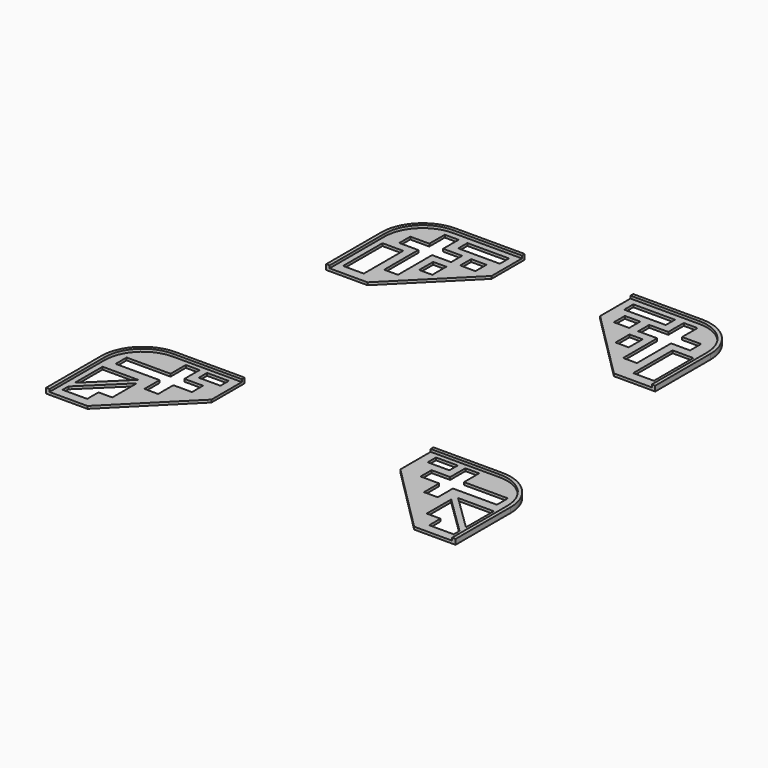
from build123d import *

# Parameters (mm, degrees)
F0_W      = 4.7741434537
F0_H      = 11.3548277877
F0_W_2    = 3.029467538
F0_H_2    = 4.0243016556
F0_W_3    = 3.5360120237
F0_H_3    = 3.175
F0_W_4    = 9.5876548439
F0_H_4    = 2.6476947606
F1_DEPTH  = 0.5953125
F3_W      = 5.000397563
F3_H      = 2.3930110037
F4_DEPTH  = 0.5953125
F7_DEPTH  = 0.5953125
F10_DEPTH = 0.5953125


with BuildPart() as f1:
    # F0 (on Top) → F1 (new body)
    with BuildSketch(Plane.XY):
        with BuildLine():
            Line((-37.8999099401, 23.7517624235), (-37.8999099401, 7.8767624235))
            Line((-37.8999099401, 7.8767624235), (-28.3749099401, 7.8767624235))
            Line((-28.3749099401, 7.8767624235), (-12.4999099401, 23.7517624235))
            Line((-12.4999099401, 23.7517624235), (-12.4999099401, 33.2767624235))
            Line((-12.4999099401, 33.2767624235), (-28.3749099401, 33.2767624235))
            ThreePointArc((-28.3749099401, 33.2767624235), (-35.1101020309, 30.4869545143), (-37.8999099401, 23.7517624235))
        make_face()
        with Locations((-33.4143128712, 15.7890960108)):
            Rectangle(F0_W, F0_H, mode=Mode.SUBTRACT)
        with Locations((-22.6173051633, 19.4543590769)):
            Rectangle(F0_W_2, F0_H_2, mode=Mode.SUBTRACT)
        Polygon((-29.1072471009, 31.0463342831), (-27.5197471009, 31.0463342831), (-25.9322471009, 31.0463342831), (-25.9322471009, 26.5851784881), (-21.5492131154, 26.5851784881), (-21.5492131154, 23.4101784881), (-25.9322471009, 23.4101784881), (-25.9322471009, 13.5838342831), (-27.5197471009, 13.5838342831), (-29.1072471009, 13.5838342831), (-29.1072471009, 23.4101784881), (-33.4902810864, 23.4101784881), (-33.4902810864, 26.5851784881), (-29.1072471009, 26.5851784881), align=None, mode=Mode.SUBTRACT)
        with Locations((-17.7058172412, 24.9976784881)):
            Rectangle(F0_W_3, F0_H_3, mode=Mode.SUBTRACT)
        with Locations((-19.1090297885, 29.7224869028)):
            Rectangle(F0_W_4, F0_H_4, mode=Mode.SUBTRACT)
    extrude(amount=F1_DEPTH)


with BuildPart() as f2_1:
    # F2: instance of F1
    add(f1.part.mirror(Plane.YZ))

    # F8: F1 across plane


with BuildPart() as f4:
    # F3 (on Top) → F4 (new body)
    with BuildSketch(Plane.XY):
        with BuildLine():
            Line((-47.1529566733, -45.3240452789), (-47.1529566733, -61.1990452789))
            Line((-47.1529566733, -61.1990452789), (-37.6279566733, -61.1990452789))
            Line((-37.6279566733, -61.1990452789), (-21.7529566733, -45.3240452789))
            Line((-21.7529566733, -45.3240452789), (-21.7529566733, -35.7990452789))
            Line((-21.7529566733, -35.7990452789), (-37.6279566733, -35.7990452789))
            ThreePointArc((-37.6279566733, -35.7990452789), (-44.3631487641, -38.5888531881), (-47.1529566733, -45.3240452789))
        make_face()
        Polygon((-45.0544313312, -47.5520975888), (-36.8459821744, -47.5520975888), (-45.0544313312, -55.5688444664), align=None, mode=Mode.SUBTRACT)
        Polygon((-36.2051948905, -48.7631298602), (-36.2051948905, -55.8149367571), (-39.3846184015, -55.8149367571), (-39.3846184015, -59.0765923262), (-45.0544313312, -59.0765923262), (-45.0544313312, -57.405698907), align=None, mode=Mode.SUBTRACT)
        Polygon((-26.324653998, -42.054524374), (-26.324653998, -43.272908777), (-26.324653998, -45.229524374), (-30.611936003, -45.229524374), (-30.611936003, -49.6035590768), (-33.786936003, -49.6035590768), (-33.786936003, -45.229524374), (-43.9120419323, -45.229524374), (-43.9120419323, -42.054524374), (-33.786936003, -42.054524374), (-33.786936003, -37.6804896712), (-30.611936003, -37.6804896712), (-30.611936003, -42.054524374), align=None, mode=Mode.SUBTRACT)
        with Locations((-26.3687595725, -38.9008168131)):
            Rectangle(F3_W, F3_H, mode=Mode.SUBTRACT)
    extrude(amount=F4_DEPTH)


with BuildPart() as f5_1:
    # F5: instance of F4
    add(f4.part.mirror(Plane.YZ))

    # F11: F4 across plane


with BuildPart() as f1_1:
    add(f1.part)

    # F6 (on face) → F7 (join)
    with BuildSketch(Plane.XY.offset(0.5953125)):
        with BuildLine():
            ThreePointArc((-37.1061599401, 23.7517624235), (-34.5488360233, 29.9256885068), (-28.3749099401, 32.4830124235))
            Line((-28.3749099401, 32.4830124235), (-12.4999099401, 32.4830124235))
            Line((-12.4999099401, 32.4830124235), (-12.4999099401, 33.2767624235))
            Line((-12.4999099401, 33.2767624235), (-28.3749099401, 33.2767624235))
            ThreePointArc((-28.3749099401, 33.2767624235), (-35.1101020309, 30.4869545143), (-37.8999099401, 23.7517624235))
            Line((-37.8999099401, 23.7517624235), (-37.8999099401, 7.8767624235))
            Line((-37.8999099401, 7.8767624235), (-37.1061599401, 7.8767624235))
            Line((-37.1061599401, 7.8767624235), (-37.1061599401, 23.7517624235))
        make_face()
    extrude(amount=F7_DEPTH)


with BuildPart() as f2_1_1:
    add(f2_1.part)
    add(f1_1.part.mirror(Plane.YZ))


with BuildPart() as f4_1:
    add(f4.part)

    # F9 (on face) → F10 (join)
    with BuildSketch(Plane.XY.offset(0.5953125)):
        with BuildLine():
            ThreePointArc((-37.6279566733, -35.7990452789), (-44.3631487641, -38.5888531881), (-47.1529566733, -45.3240452789))
            Line((-47.1529566733, -45.3240452789), (-47.1529566733, -61.1990452789))
            Line((-47.1529566733, -61.1990452789), (-46.3592066733, -61.1990452789))
            Line((-46.3592066733, -61.1990452789), (-46.3592066733, -45.3240452789))
            ThreePointArc((-46.3592066733, -45.3240452789), (-43.8018827565, -39.1501191957), (-37.6279566733, -36.5927952789))
            Line((-37.6279566733, -36.5927952789), (-21.7529566733, -36.5927952789))
            Line((-21.7529566733, -36.5927952789), (-21.7529566733, -35.7990452789))
            Line((-21.7529566733, -35.7990452789), (-37.6279566733, -35.7990452789))
        make_face()
    extrude(amount=F10_DEPTH)


with BuildPart() as f5_1_1:
    add(f5_1.part)
    add(f4_1.part.mirror(Plane.YZ))


solid = Compound([f1_1.part, f2_1_1.part, f4_1.part, f5_1_1.part])
